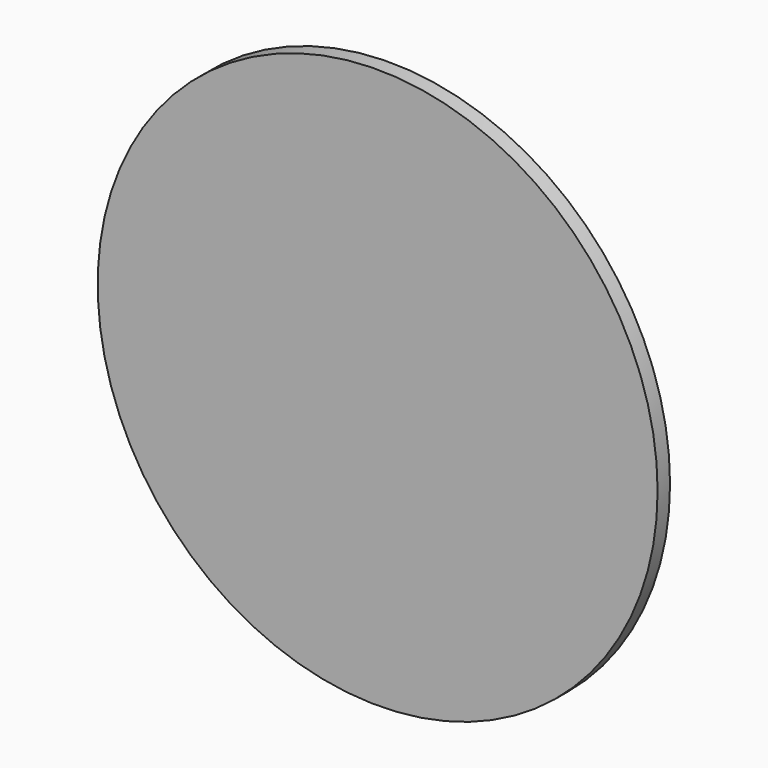
from build123d import *

# Parameters (mm, degrees)
F0_R     = 114.3
F1_DEPTH = 25.4
F2_DEPTH = 12.7
F3_DEPTH = 6.35
F4_W     = 57.15
F4_H     = 57.15
F5_DEPTH = 2.54
F6_W     = 12.7
F6_H     = 1.27
F7_DEPTH = 1.27


with BuildPart() as f1:
    # F0 (on Front) → F1 (new body)
    with BuildSketch(Plane.XZ):
        Circle(F0_R)
    extrude(amount=F1_DEPTH)

    # F2 (cut): a face of the model
    f2_faces = [f1.faces().sort_by_distance(p)[0] for p in [
        (0, -25.4, 0),
    ]]
    extrude(f2_faces, amount=-F2_DEPTH, mode=Mode.SUBTRACT)

    # F3 (cut): a face of the model
    f3_faces = [f1.faces().sort_by_distance(p)[0] for p in [
        (0, -12.7, 0),
    ]]
    extrude(f3_faces, amount=-F3_DEPTH, mode=Mode.SUBTRACT)

    # F4 (on face) → F5 (cut)
    with BuildSketch(Plane(origin=(0, 0, 0), x_dir=(-1, 0, 0), z_dir=(0, 1, 0))):
        Rectangle(F4_W, F4_H)
    extrude(amount=-F5_DEPTH, mode=Mode.SUBTRACT)

    # F6 (on face) → F7 (cut)
    with BuildSketch(Plane(origin=(0, 0, 0), x_dir=(-1, 0, 0), z_dir=(0, 1, 0))):
        with Locations((0, 100.2205033398)):
            Rectangle(F6_W, F6_H)
    extrude(amount=-F7_DEPTH, mode=Mode.SUBTRACT)


solid = f1.part
